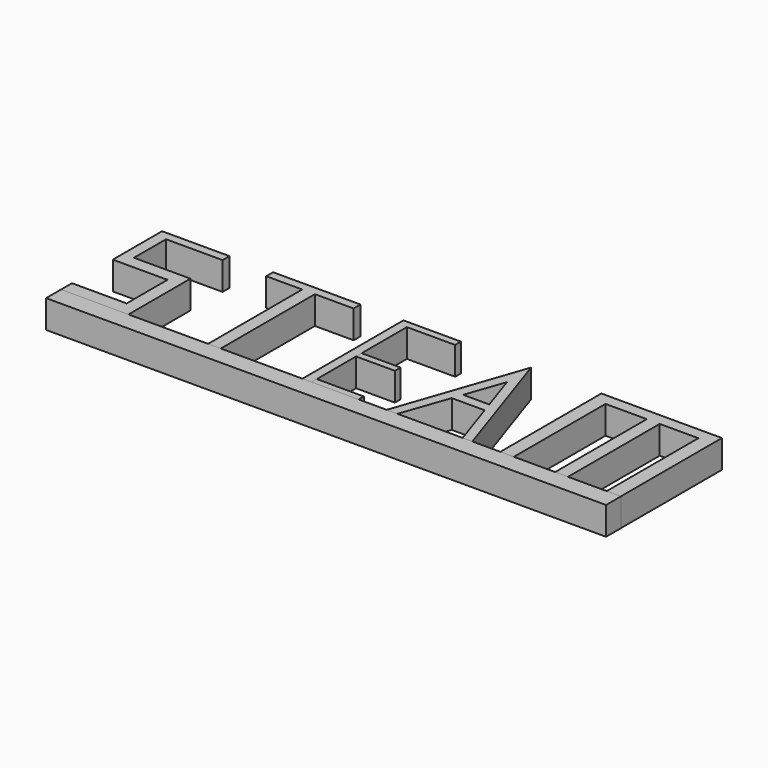
from build123d import *

# Parameters (mm, degrees)
F0_W     = 1.1723097414
F0_H     = 4.2984655011
F0_W_2   = 1.367693767
F0_H_2   = 5.4707736708
F6_DEPTH = 3
F1_W     = 1.3554608449
F1_H     = 12.7741967444
F2_W     = 0.9857905097
F2_H     = 12.9795701359
F3_W     = 4.1792763222
F3_H     = 0.7598684169
F3_W_2   = 5.0427630194
F3_H_2   = 0.8634869009
F5_W     = 4.4210534543
F5_H     = 1.2543828925
F5_W_2   = 4.1447356343
F7_W     = 52.7724102139
F7_H     = 3
F7_W_2   = 7.2292368859
F8_DEPTH = 2


with BuildPart() as f6:
    # F0 (on Top) → F6 (new body)
    with BuildSketch(Plane.XY):
        Polygon((-24.1432655603, 0), (-31.3725024462, 0), (-31.3725024462, -0.9280753438), (-30.2001927048, -0.9280753438), (-24.1432655603, -0.9280753438), align=None)
        with Locations((-30.7863475755, -3.0773080944)):
            Rectangle(F0_W, F0_H)
        Polygon((-30.2001927048, -5.2265408449), (-31.3725024462, -5.2265408449), (-31.3725024462, -6.5942336805), (-25.5109593272, -6.5942336805), (-24.1432655603, -6.5942336805), (-24.1432655603, -5.2265408449), align=None)
        with Locations((-24.8271124437, -9.3296205159)):
            Rectangle(F0_W_2, F0_H_2)
        Polygon((-24.1432655603, -12.0650073513), (-25.5109593272, -12.0650073513), (-31.3725024462, -12.0650073513), (-31.3725024462, -13.5303931311), (-24.1432655603, -13.5303931311), align=None)
    extrude(amount=F6_DEPTH)


with BuildPart() as f6b:
    # F1 (on Top) → F6, piece 2 (new body)
    with BuildSketch(Plane.XY):
        with Locations((-14.935886953, -7.3080103321)):
            Rectangle(F1_W, F1_H)
        Polygon((-10.1096229628, 0), (-19.4746293128, 0), (-19.4746293128, -0.9209119598), (-15.6136173755, -0.9209119598), (-14.2581565306, -0.9209119598), (-10.1096229628, -0.9209119598), align=None)
    extrude(amount=F6_DEPTH)


with BuildPart() as f6c:
    # F2 (on Top) → F6, piece 3 (new body)
    with BuildSketch(Plane.XY):
        Polygon((0.6540161557, -0.7731203805), (0.6540161557, 0), (-5.507172551, 0), (-5.507172551, -0.7731203805), (-4.5213820413, -0.7731203805), align=None)
        with Locations((-5.0142772961, -7.2629054484)):
            Rectangle(F2_W, F2_H)
    extrude(amount=F6_DEPTH)


with BuildPart() as f6d:
    # F3 (on Top) → F6, piece 4 (new body)
    with BuildSketch(Plane.XY):
        with Locations((-2.4377993395, -7.2027209681)):
            Rectangle(F3_W, F3_H)
    extrude(amount=F6_DEPTH)


with BuildPart() as f6e:
    # F3 (on Top) → F6, piece 5 (new body)
    with BuildSketch(Plane.XY):
        with Locations((-2.0060559909, -13.2643990219)):
            Rectangle(F3_W_2, F3_H_2)
    extrude(amount=F6_DEPTH)


with BuildPart() as f6f:
    # F4 (on Top) → F6, piece 6 (new body)
    with BuildSketch(Plane.XY):
        Polygon((8.1715472043, 0), (3.474178724, -13.6885941029), (4.6485206112, -13.6195151135), (6.4483432596, -8.471871454), (6.818751279, -7.4124734659), (8.248165908, -3.3242277944), (9.616729785, -7.4124734659), (9.971369387, -8.471871454), (11.694572866, -13.6195151135), (12.7307586372, -13.6195151135), align=None)
        Polygon((6.818751279, -7.4124734659), (6.4483432596, -8.471871454), (9.971369387, -8.471871454), (9.616729785, -7.4124734659), align=None)
    extrude(amount=F6_DEPTH)


with BuildPart() as f6g:
    # F5 (on Top) → F6, piece 7 (new body)
    with BuildSketch(Plane.XY):
        Polygon((15.7011523843, 0), (15.7011523843, -13.6195151135), (17.1518102288, -13.6195151135), (17.1518102288, -1.2543828925), (17.1518102288, 0), align=None)
        with Locations((19.362336956, -0.6271914463)):
            Rectangle(F5_W, F5_H)
        with Locations((25.0268094242, -0.6271914463)):
            Rectangle(F5_W_2, F5_H)
        Polygon((28.6189168692, 0), (27.0991772413, 0), (27.0991772413, -1.2543828925), (27.0991772413, -13.5504361242), (28.6189168692, -13.5504361242), align=None)
        Polygon((21.5728636831, 0), (21.5728636831, -1.2543828925), (21.5728636831, -13.5504361242), (22.954441607, -13.5504361242), (22.954441607, -1.2543828925), (22.954441607, 0), align=None)
    extrude(amount=F6_DEPTH)


with BuildPart() as f8:
    # F7 (on face) → F8 (new body)
    with BuildSketch(Plane.XZ.offset(13.5303931311)):
        with Locations((2.2429395467, 1.5)):
            Rectangle(F7_W, F7_H)
        with Locations((-27.7578840032, 1.5)):
            Rectangle(F7_W_2, F7_H)
    extrude(amount=F8_DEPTH)


solid = Compound([f6.part, f6b.part, f6c.part, f6d.part, f6e.part, f6f.part, f6g.part, f8.part])
